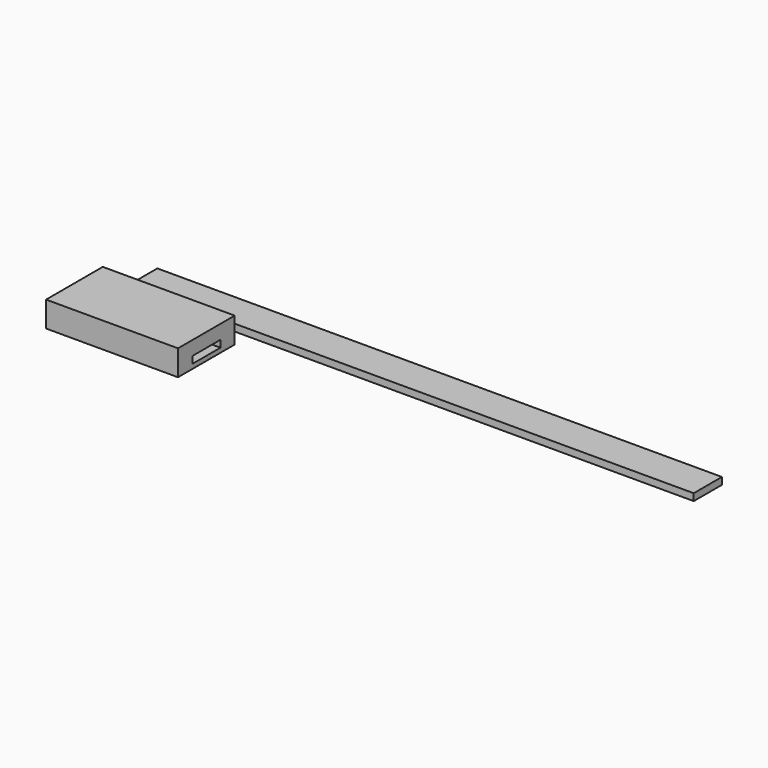
from build123d import *

# Parameters (mm, degrees)
F0_W     = 20.0152
F0_H     = 3.9624
F1_DEPTH = 320.675
F2_W     = 40.259
F2_H     = 14.478
F2_W_2   = 19.9898
F2_H_2   = 3.9624
F3_DEPTH = 74.93


with BuildPart() as f1:
    # F0 (on Right) → F1 (new body)
    with BuildSketch(Plane.YZ):
        with Locations((10.0076, 1.9812)):
            Rectangle(F0_W, F0_H)
    extrude(amount=F1_DEPTH)


with BuildPart() as f3:
    # F2 (on Right) → F3 (new body)
    with BuildSketch(Plane.YZ):
        with Locations((-38.851005, 13.23496)):
            Rectangle(F2_W, F2_H)
        with Locations((-38.825605, 10.51716)):
            Rectangle(F2_W_2, F2_H_2, mode=Mode.SUBTRACT)
    extrude(amount=F3_DEPTH)


solid = Compound([f1.part, f3.part])
